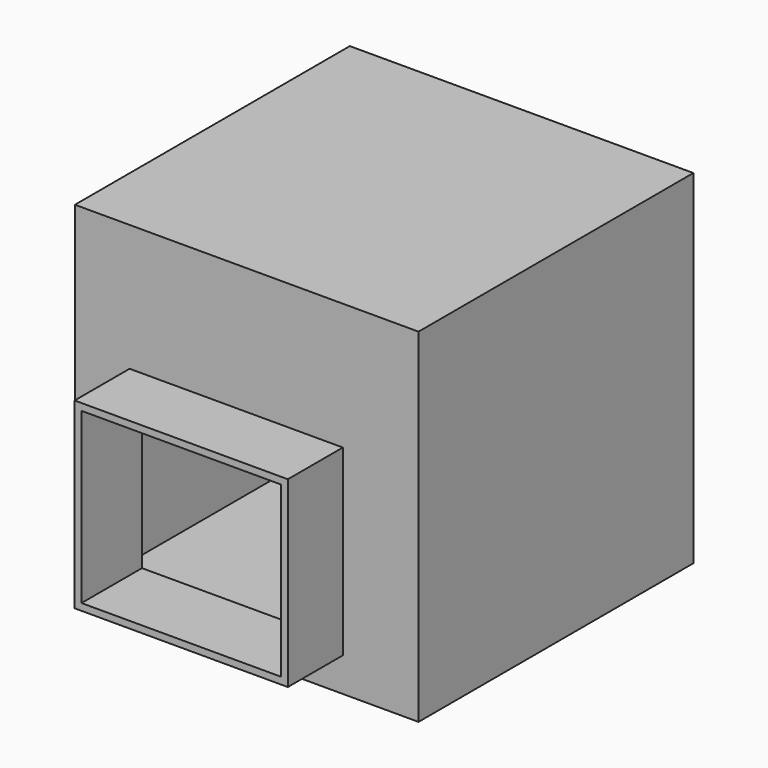
from build123d import *

# Parameters (mm, degrees)
F0_W     = 127
F0_H     = 127
F1_DEPTH = 127
F2_W     = 78.8183361292
F2_H     = 67.629866302
F3_DEPTH = 25.4
F4_T     = -2.54


with BuildPart() as f1:
    # F0 (on Front) → F1 (new body)
    with BuildSketch(Plane.XZ):
        with Locations((3.8867425174, 17.1191294668)):
            Rectangle(F0_W, F0_H)
    extrude(amount=F1_DEPTH)

    # F2 (on face) → F3 (join)
    with BuildSketch(Plane.XZ.offset(127)):
        Rectangle(F2_W, F2_H)
    extrude(amount=F3_DEPTH)

    # F4
    f4_openings = [f1.faces().sort_by_distance(p)[0] for p in [
        (0, -152.4, 0),
    ]]
    offset(amount=F4_T, openings=f4_openings, kind=Kind.INTERSECTION)


solid = f1.part
